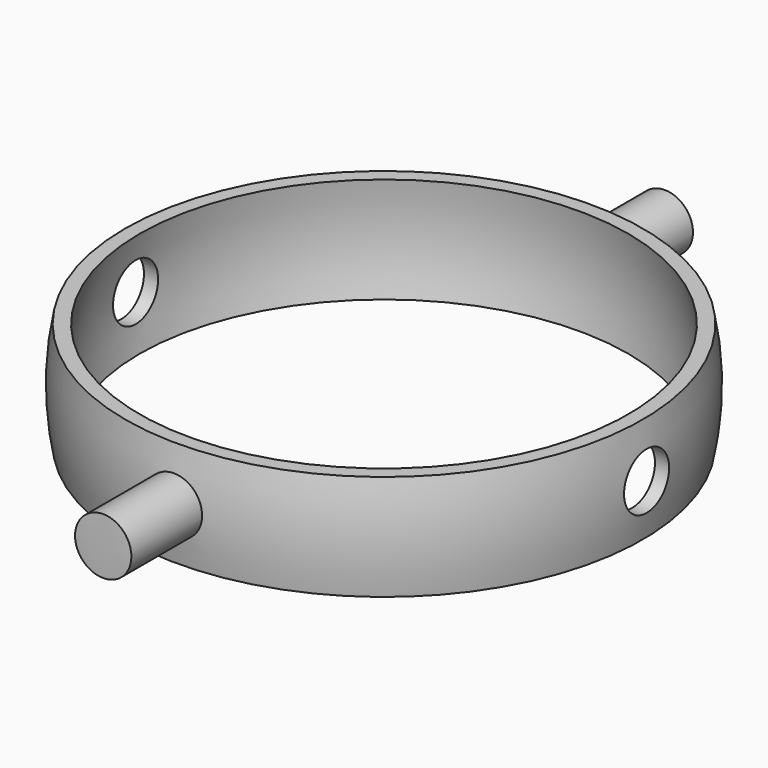
from build123d import *

# Parameters (mm, degrees)
F2_R          = 4
F3_DEPTH      = 37.501
F3_DEPTH_BACK = 37.501
F5_R          = 4


with BuildPart() as f1:
    # F0 (on Front) → F1 (revolve)
    with BuildSketch(Plane.XZ):
        with BuildLine():
            Line((-34.6987031458, 7.5), (-36.7423461417, 7.5))
            ThreePointArc((-36.7423461417, 7.5), (-37.5, 0), (-36.7423461417, -7.5))
            Line((-36.7423461417, -7.5), (-34.6987031458, -7.5))
            ThreePointArc((-34.6987031458, -7.5), (-35.5, 0), (-34.6987031458, 7.5))
        make_face()
    revolve(axis=Axis((0, 0, 16.8621425897), (0, 0, -1)))

    # F2 (on Right) → F3 (cut, two sides)
    with BuildSketch(Plane.YZ) as f3_sk:
        Circle(F2_R)
    extrude(amount=-F3_DEPTH, mode=Mode.SUBTRACT)
    extrude(f3_sk.sketch, amount=F3_DEPTH_BACK, mode=Mode.SUBTRACT)

    # F5 (on offset) → F6 (join, up to the next surface of F1)
    with BuildSketch(Plane.XZ.offset(50)):
        Circle(F5_R)
    extrude(until=Until.NEXT, dir=(0, 1, 0))

    # F7: F1 across plane


with BuildPart() as f1_1:
    add(f1.part)
    add(f1.part.mirror(Plane.XZ))

    # F8 (on Right) → F9 (revolve, cut)
    with BuildSketch(Plane.YZ):
        with BuildLine():
            Line((0, 50), (0, 55))
            ThreePointArc((0, 55), (-55, 0), (0, -55))
            Line((0, -55), (0, -50))
            ThreePointArc((0, -50), (-50, 0), (0, 50))
        make_face()
    revolve(axis=Axis((0, 0, 27.5), (0, 0, -1)), mode=Mode.SUBTRACT)


solid = f1_1.part
